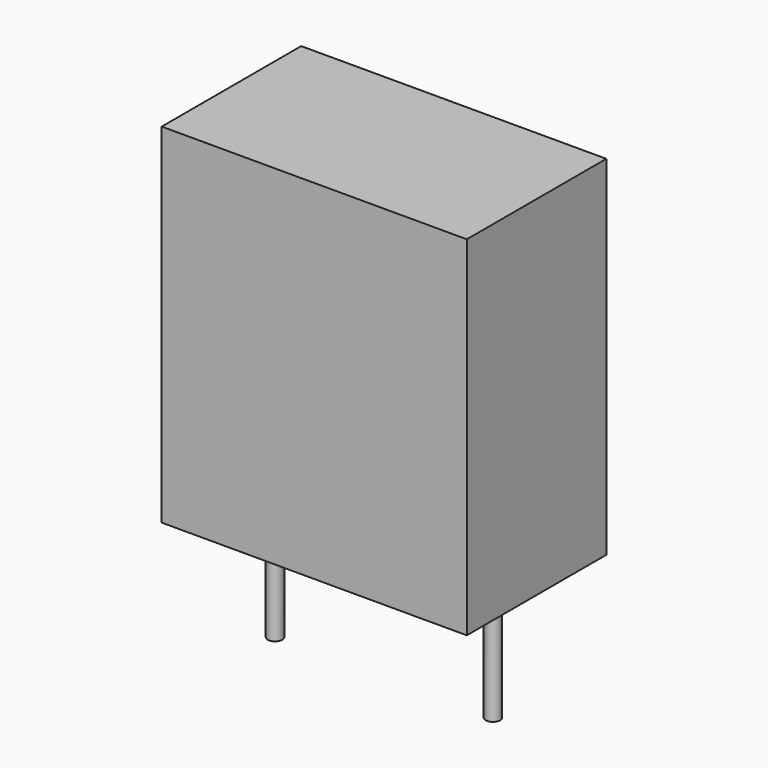
from build123d import *

# Parameters (mm, degrees)
F0_W          = 10.5
F0_H          = 12
F1_DEPTH      = 3
F1_DEPTH_BACK = 3
F2_R          = 0.25
F3_DEPTH      = 4.2
F4_W          = 9.5
F4_H          = 5
F5_DEPTH      = 1


with BuildPart() as f1:
    # F0 (on Front) → F1 (new body, two sides)
    with BuildSketch(Plane.XZ) as f1_sk:
        with Locations((0, 6)):
            Rectangle(F0_W, F0_H)
    extrude(amount=F1_DEPTH)
    extrude(f1_sk.sketch, amount=-F1_DEPTH_BACK)


with BuildPart() as f3:
    # F2 (on Top) → F3 (new body)
    with BuildSketch(Plane.XY):
        with Locations((-3.75, 0)):
            Circle(F2_R)
        with Locations((3.75, 0)):
            Circle(F2_R)
    extrude(amount=-F3_DEPTH)


with BuildPart() as f5:
    # F4 (on face) → F5 (new body)
    with BuildSketch(Plane(origin=(0, 0, 0), x_dir=(1, 0, 0), z_dir=(0, 0, -1))):
        with Locations((0, -0.020833)):
            Rectangle(F4_W, F4_H)
    extrude(amount=-F5_DEPTH)


with BuildPart() as f1_1:
    add(f1.part)

    # F6: cut F5
    add(f5.part, mode=Mode.SUBTRACT)


solid = Compound([f3.part, f5.part, f1_1.part])
